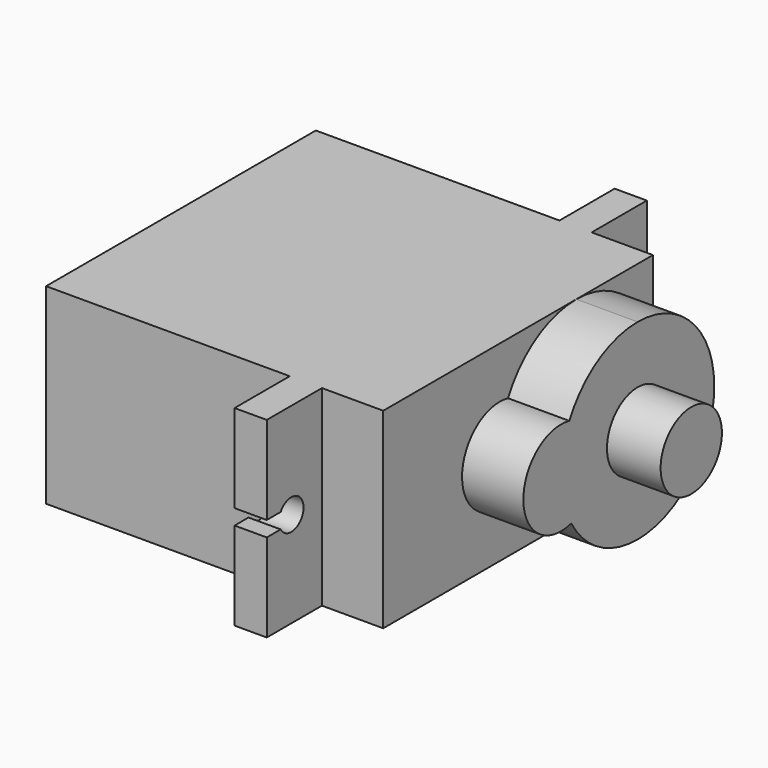
from build123d import *

# Parameters (mm, degrees)
F0_W      = 22
F0_H      = 22
F1_DEPTH  = 12.5
F3_DEPTH  = 4
F4_R      = 2.5
F5_DEPTH  = 3.5
F6_W      = 2.1
F6_H      = 12.5
F7_DEPTH  = 4.5
F9_DEPTH  = 2.1
F10_W     = 2.1
F10_H     = 12.5
F11_DEPTH = 4.5
F13_DEPTH = 2.1


with BuildPart() as f1:
    # F0 (on Top) → F1 (new body)
    with BuildSketch(Plane.XY):
        Rectangle(F0_W, F0_H)
    extrude(amount=F1_DEPTH)

    # F2 (on face) → F3 (join)
    with BuildSketch(Plane.YZ.offset(11)):
        with BuildLine():
            ThreePointArc((-0.6636140703, 3.1266552068), (1.6241725062, 0.8378190645), (4.75, 0))
            ThreePointArc((4.75, 0), (9.1694173824, 1.8305826176), (11, 6.25))
            ThreePointArc((11, 6.25), (9.1694173824, 10.6694173824), (4.75, 12.5))
            ThreePointArc((4.75, 12.5), (1.4810489541, 11.5769558905), (-0.8223385695, 9.0804668991))
            ThreePointArc((-0.8223385695, 9.0804668991), (0.9015416929, 8.0022024538), (1.5744178172, 6.0834385042))
            ThreePointArc((1.5744178172, 6.0834385042), (0.9518242766, 4.2292975847), (-0.6636140703, 3.1266552068))
        make_face()
        with BuildLine():
            ThreePointArc((-0.8223385695, 9.0804668991), (-4.568887039, 6.001564921), (-0.6636140703, 3.1266552068))
            ThreePointArc((-0.6636140703, 3.1266552068), (-1.4977801872, 6.0834385042), (-0.8223385695, 9.0804668991))
        make_face()
        with BuildLine():
            ThreePointArc((-0.8223385695, 9.0804668991), (-1.4977801872, 6.0834385042), (-0.6636140703, 3.1266552068))
            ThreePointArc((-0.6636140703, 3.1266552068), (0.9518242766, 4.2292975847), (1.5744178172, 6.0834385042))
            ThreePointArc((1.5744178172, 6.0834385042), (0.9015416929, 8.0022024538), (-0.8223385695, 9.0804668991))
        make_face()
    extrude(amount=F3_DEPTH)

    # F4 (on face) → F5 (join)
    with BuildSketch(Plane.YZ.offset(15)):
        with Locations((4.75, 6.25)):
            Circle(F4_R)
    extrude(amount=F5_DEPTH)

    # F6 (on face) → F7 (join)
    with BuildSketch(Plane.XZ.offset(11)):
        with Locations((5.95, 6.25)):
            Rectangle(F6_W, F6_H)
    extrude(amount=F7_DEPTH)

    # F8 (on face) → F9 (cut)
    with BuildSketch(Plane(origin=(4.9, 0, 0), x_dir=(0, -1, 0), z_dir=(-1, 0, 0))):
        with BuildLine():
            ThreePointArc((14.3660254038, 6.75), (14.4659258263, 6.5088190451), (14.5, 6.25))
            ThreePointArc((14.5, 6.25), (14.4659258263, 5.9911809549), (14.3660254038, 5.75))
            Line((14.3660254038, 5.75), (15.5, 5.75))
            Line((15.5, 5.75), (15.5, 6.75))
            Line((15.5, 6.75), (14.3660254038, 6.75))
        make_face()
        with BuildLine():
            ThreePointArc((14.3660254038, 5.75), (14.4659258263, 5.9911809549), (14.5, 6.25))
            ThreePointArc((14.5, 6.25), (14.4659258263, 6.5088190451), (14.3660254038, 6.75))
            ThreePointArc((14.3660254038, 6.75), (12.5, 6.25), (14.3660254038, 5.75))
        make_face()
    extrude(amount=-F9_DEPTH, mode=Mode.SUBTRACT)

    # F10 (on face) → F11 (join)
    with BuildSketch(Plane(origin=(0, 11, 0), x_dir=(-1, 0, 0), z_dir=(0, 1, 0))):
        with Locations((-5.95, 6.25)):
            Rectangle(F10_W, F10_H)
    extrude(amount=F11_DEPTH)

    # F12 (on face) → F13 (cut)
    with BuildSketch(Plane(origin=(4.9, 0, 0), x_dir=(0, -1, 0), z_dir=(-1, 0, 0))):
        with BuildLine():
            ThreePointArc((-14.3660254038, 5.75), (-13.2411809549, 5.2840741737), (-12.5, 6.25))
            ThreePointArc((-12.5, 6.25), (-13.2411809549, 7.2159258263), (-14.3660254038, 6.75))
            ThreePointArc((-14.3660254038, 6.75), (-14.5, 6.25), (-14.3660254038, 5.75))
        make_face()
        with BuildLine():
            ThreePointArc((-14.3660254038, 5.75), (-14.5, 6.25), (-14.3660254038, 6.75))
            Line((-14.3660254038, 6.75), (-15.5, 6.75))
            Line((-15.5, 6.75), (-15.5, 5.75))
            Line((-15.5, 5.75), (-14.3660254038, 5.75))
        make_face()
    extrude(amount=-F13_DEPTH, mode=Mode.SUBTRACT)


solid = f1.part
